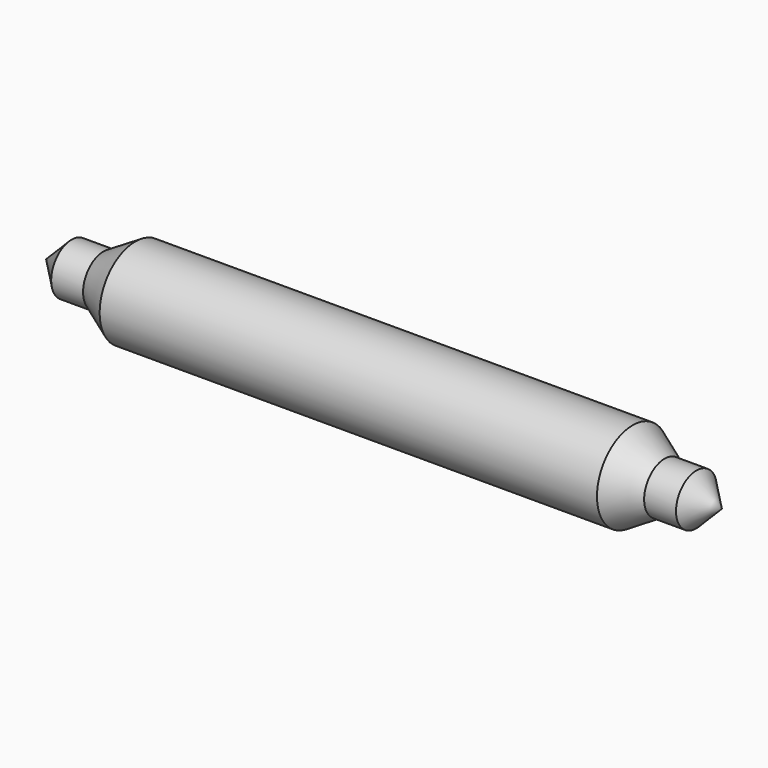
from build123d import *

# Parameters (mm, degrees)
F0_W   = 39
F0_H   = 1.5
F0_H_2 = 2


with BuildPart() as f1:
    # F0 (on Front) → F1 (revolve)
    with BuildSketch(Plane.XZ):
        Polygon((-24.5, 0), (-24.5, 2), (-26.5, 0), align=None)
        Polygon((-19.5, 0), (-19.5, 2), (-22, 2), (-24.5, 2), (-24.5, 0), align=None)
        Polygon((-19.5, 2), (-19.5, 3.5), (-22, 2), align=None)
        with Locations((0, 2.75)):
            Rectangle(F0_W, F0_H)
        with Locations((0, 1)):
            Rectangle(F0_W, F0_H_2)
        Polygon((22, 2), (19.5, 2), (19.5, 0), (24.5, 0), (24.5, 2), align=None)
        Polygon((22, 2), (19.5, 3.5), (19.5, 2), align=None)
        Polygon((26.5, 0), (24.5, 2), (24.5, 0), align=None)
    revolve(axis=Axis((-2.8990283608, 0, 0), (1, 0, 0)))


solid = f1.part
